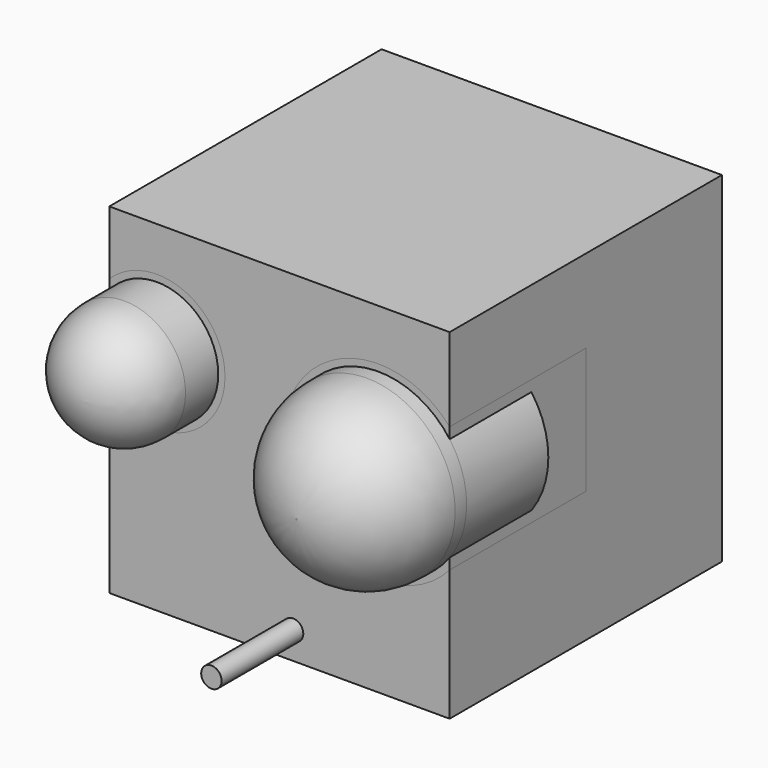
from build123d import *

# Parameters (mm, degrees)
F0_W     = 50
F0_H     = 50
F1_DEPTH = 50
F2_R     = 9
F2_R_2   = 13
F2_R_3   = 1.5
F3_DEPTH = 15
F5_DEPTH = 25
F6_R     = 12.9
F7_R     = 9


with BuildPart() as f1:
    # F0 (on Front) → F1 (new body)
    with BuildSketch(Plane.XZ):
        Rectangle(F0_W, F0_H)
    extrude(amount=F1_DEPTH)


with BuildPart() as f3:
    # F2 (on face) → F3 (new body, symmetric)
    with BuildSketch(Plane.XZ.offset(50)):
        with Locations((-18, 8.5)):
            Circle(F2_R)
        with Locations((14.5, 3.5)):
            Circle(F2_R_2)
        with Locations((2, -21)):
            Circle(F2_R_3)
    extrude(amount=F3_DEPTH, both=True)

    # F6
    f6_edges = [f3.edges().sort_by_distance(p)[0] for p in [
        (1.5, -65, 3.5),
    ]]
    fillet(f6_edges, radius=F6_R)

    # F7
    f7_edges = [f3.edges().sort_by_distance(p)[0] for p in [
        (-27, -65, 8.5),
    ]]
    fillet(f7_edges, radius=F7_R)


with BuildPart() as f5:
    # F4 (on face) → F5 (new body)
    with BuildSketch(Plane.XZ.offset(50)):
        with BuildLine():
            Line((-25, 15.641428), (-25, 1.358572))
            ThreePointArc((-25, 1.358572), (-8, 8.5), (-25, 15.641428))
        make_face()
        with BuildLine():
            Line((25, -5.76013), (25, 12.76013))
            ThreePointArc((25, 12.76013), (0.5, 3.5), (25, -5.76013))
        make_face()
    extrude(amount=-F5_DEPTH)


solid = Compound([f1.part, f3.part, f5.part])
